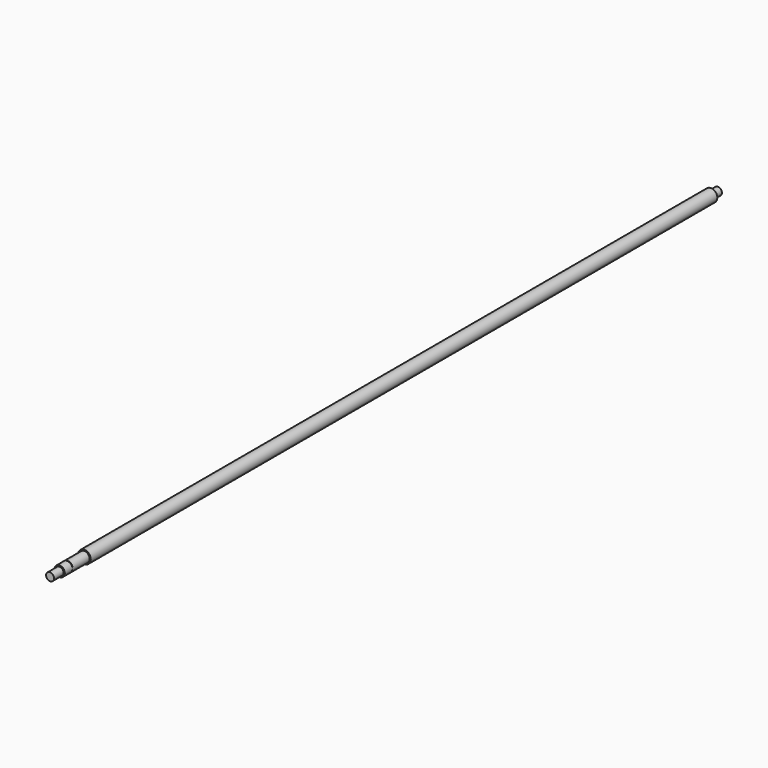
from build123d import *

# Parameters (mm, degrees)
F0_W = 11
F0_H = 5


with BuildPart() as f1:
    # F0 (on Right) → F1 (revolve)
    with BuildSketch(Plane.YZ):
        Polygon((-492.5, 6.544687), (-492.5, 0), (-432.300255, 0), (492.5, 0), (492.5, 5), (492.5, 8), (-492.5, 8), align=None)
        Polygon((-531.5, 0), (-492.5, 0), (-492.5, 6.544687), (-519, 6.544687), (-519, 6.044687), (-519.5, 6.044687), (-519.5, 6.544687), (-531.5, 6.544687), (-531.5, 5), (-546.5, 5), (-546.5, 0), align=None)
        with Locations((498, 2.5)):
            Rectangle(F0_W, F0_H)
    revolve(axis=Axis((0, 0, 0), (0, 1, 0)))


solid = f1.part
